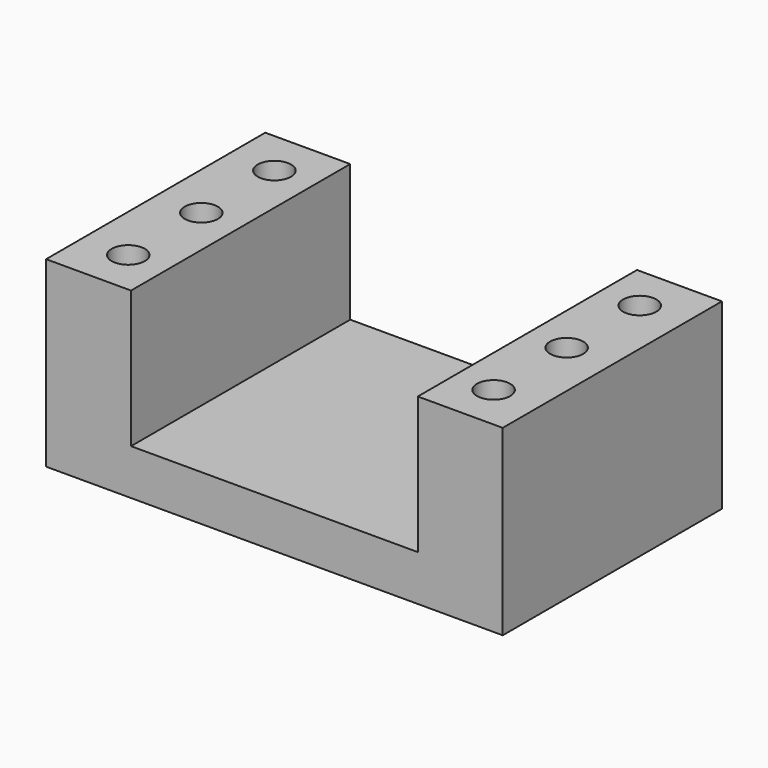
from build123d import *

# Parameters (mm, degrees)
F0_W     = 11.811
F0_H     = 38.1
F0_R     = 2.3114
F1_DEPTH = 25.4
F0_W_2   = 39.878
F2_DEPTH = 6.35


with BuildPart() as f1:
    # F0 (on Top) → F1 (new body)
    with BuildSketch(Plane.XY):
        with Locations((-21.633447, 7.007305)):
            Rectangle(F0_W, F0_H)
        with Locations((-21.188947, -5.692695)):
            Circle(F0_R, mode=Mode.SUBTRACT)
        with Locations((-21.188947, 7.007305)):
            Circle(F0_R, mode=Mode.SUBTRACT)
        with Locations((-21.188947, 19.707305)):
            Circle(F0_R, mode=Mode.SUBTRACT)
        with Locations((30.055553, 7.007305)):
            Rectangle(F0_W, F0_H)
        with Locations((29.611053, -5.692695)):
            Circle(F0_R, mode=Mode.SUBTRACT)
        with Locations((29.611053, 7.007305)):
            Circle(F0_R, mode=Mode.SUBTRACT)
        with Locations((29.611053, 19.707305)):
            Circle(F0_R, mode=Mode.SUBTRACT)
    extrude(amount=F1_DEPTH)

    # F0 (on Top) → F2 (join)
    with BuildSketch(Plane.XY):
        with Locations((4.211053, 7.007305)):
            Rectangle(F0_W_2, F0_H)
    extrude(amount=F2_DEPTH)


solid = f1.part
